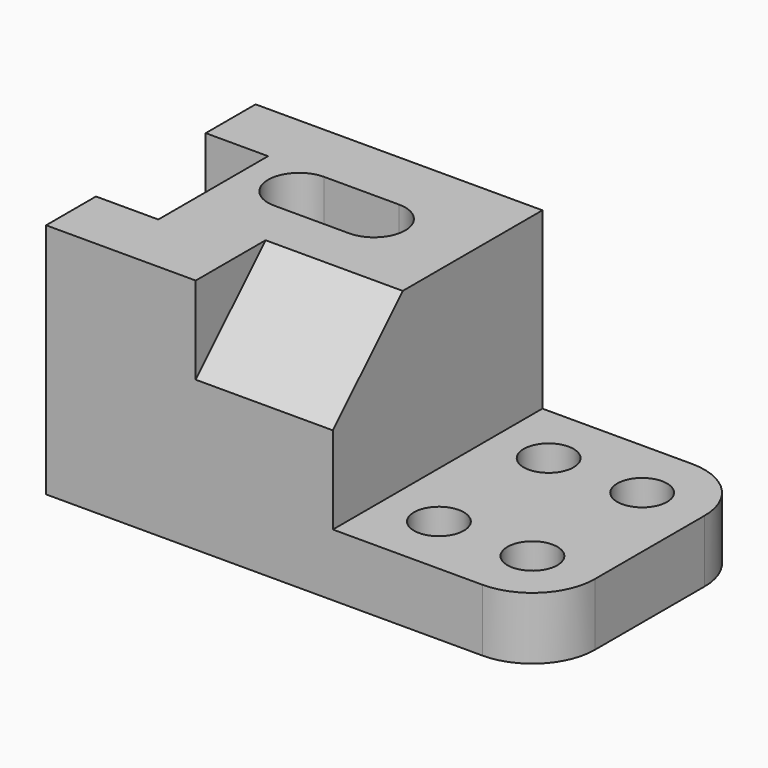
from build123d import *

# Parameters (mm, degrees)
SKETCH_W        = 80
SKETCH_H        = 42
PAD_DEPTH       = 38
SKETCH001_W     = 34
SKETCH001_H     = 42
POCKET_DEPTH    = 28
SKETCH002_W     = 10
SKETCH002_H     = 22
POCKET001_DEPTH = 38
SKETCH003_R     = 4
POCKET002_DEPTH = 38
POCKET003_DEPTH = 38
POCKET004_DEPTH = 22
FILLET_R        = 10
FILLET001_R     = 10


with BuildPart() as part:
    # Sketch → Pad (new body)
    with BuildSketch(Plane.XY):
        with Locations((40, 21)):
            Rectangle(SKETCH_W, SKETCH_H)
    extrude(amount=PAD_DEPTH)

    # Sketch001 (on Face6 of Pad) → Pocket (cut)
    with BuildSketch(Plane.XY.offset(38)):
        with Locations((63, 21)):
            Rectangle(SKETCH001_W, SKETCH001_H)
    extrude(amount=-POCKET_DEPTH, mode=Mode.SUBTRACT)

    # Sketch002 (on Face6 of Pocket) → Pocket001 (cut)
    with BuildSketch(Plane.XY.offset(38)):
        with Locations((5, 21)):
            Rectangle(SKETCH002_W, SKETCH002_H)
    extrude(amount=-POCKET001_DEPTH, mode=Mode.SUBTRACT)

    # Sketch003 (on Face6 of Pocket001) → Pocket002 (cut)
    with BuildSketch(Plane.XY.offset(38)):
        with Locations((55, 32)):
            Circle(SKETCH003_R)
        with Locations((70, 32)):
            Circle(SKETCH003_R)
        with Locations((55, 10)):
            Circle(SKETCH003_R)
        with Locations((70, 10)):
            Circle(SKETCH003_R)
    extrude(amount=-POCKET002_DEPTH, mode=Mode.SUBTRACT)

    # Sketch004 (on Face6 of Pocket002) → Pocket003 (cut)
    with BuildSketch(Plane.XY.offset(38)):
        with BuildLine():
            ThreePointArc((19, 32), (14, 27), (19, 22))
            Line((19, 22), (31, 22))
            ThreePointArc((31, 22), (35.99997, 27), (31, 32))
            Line((19, 32), (31, 32))
        make_face()
    extrude(amount=-POCKET003_DEPTH, mode=Mode.SUBTRACT)

    # Sketch005 (on Face5 of Pocket003) → Pocket004 (cut)
    with BuildSketch(Plane.YZ.offset(46)):
        Polygon((0, 24), (0, 38), (14, 38), align=None)
    extrude(amount=-POCKET004_DEPTH, mode=Mode.SUBTRACT)

    # Fillet
    fillet_edges = [part.edges().sort_by_distance(p)[0] for p in [
        (80, 0, 5),
    ]]
    fillet(fillet_edges, radius=FILLET_R)

    # Fillet001
    fillet001_edges = [part.edges().sort_by_distance(p)[0] for p in [
        (80, 42, 5),
    ]]
    fillet(fillet001_edges, radius=FILLET001_R)


solid = part.part
